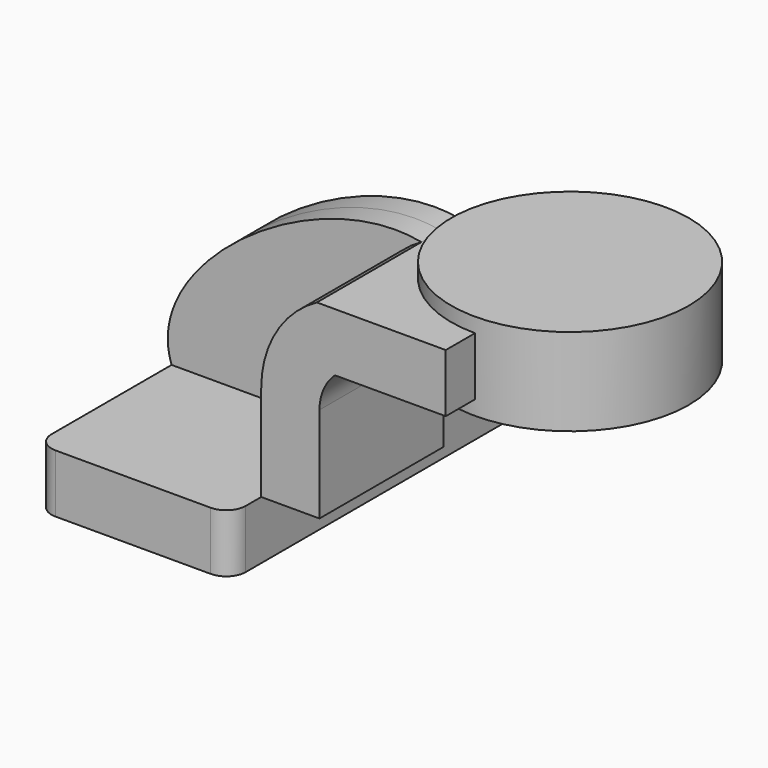
from build123d import *

# Parameters (mm, degrees)
F0_W     = 63.5
F0_H     = 19.05
F1_DEPTH = 63.5
F0_W_2   = 11.946930586
F2_DEPTH = 50.8
F3_DEPTH = 8.0645
F5_R     = 6.35


with BuildPart() as f1:
    # F0 (on Front) → F1 (new body, symmetric)
    with BuildSketch(Plane.XZ):
        with Locations((-9.525, 0)):
            Rectangle(F0_W, F0_H)
    extrude(amount=F1_DEPTH, both=True)

    # F5
    f5_edges = [f1.edges().sort_by_distance(p)[0] for p in [
        (22.225, -63.5, 0),
        (-41.275, -63.5, 0),
        (-41.275, 63.5, 0),
        (22.225, 63.5, 0),
    ]]
    fillet(f5_edges, radius=F5_R)


with BuildPart() as f2:
    # F0 (on Front) → F2 (new body)
    with BuildSketch(Plane.XZ):
        with BuildLine():
            Line((22.225, 40.787809422), (22.225, 9.525))
            Line((22.225, 9.525), (41.275, 9.525))
            Line((41.275, 9.525), (41.275, 40.787809422))
            ThreePointArc((41.275, 40.787809422), (42.5923001513, 47.1193969098), (46.3255826917, 52.4002))
            Line((46.3255826917, 52.4002), (70.6224152459, 52.4002))
            Line((70.6224152459, 52.4002), (70.6224152459, 71.4502))
            Line((70.6224152459, 71.4502), (40.4295505729, 71.4502))
            ThreePointArc((40.4295505729, 71.4502), (27.1190383001, 58.6174747128), (22.225, 40.787809422))
        make_face()
        with Locations((76.5958805389, 61.9252)):
            Rectangle(F0_W_2, F0_H)
    extrude(amount=F2_DEPTH)

    # F0 (on Front) → F4 (revolve)
    with BuildSketch(Plane.XZ):
        Polygon((82.5693458319, 76.2), (82.5693458319, 71.4502), (82.5693458319, 52.4002), (82.5693458319, 47.625), (121.4224152459, 47.625), (121.4224152459, 76.2), align=None)
    revolve(axis=Axis((82.5693458319, 0, 61.9125), (0, 0, 1)))


with BuildPart() as f3:
    # F0 (on Front) → F3 (new body, symmetric)
    with BuildSketch(Plane.XZ):
        with BuildLine():
            add(Edge.make_bspline(
                [(-41.275, 9.525), (-51.6410161004, 38.2644806741), (5.5672849006, 78.4525085923), (40.4295505729, 71.4502)],
                knots=[0, 0, 0, 0, 102.5200662278, 102.5200662278, 102.5200662278, 102.5200662278], degree=3))
            Line((-41.275, 9.525), (22.225, 9.525))
            Line((22.225, 9.525), (22.225, 40.787809422))
            ThreePointArc((22.225, 40.787809422), (27.1190383001, 58.6174747128), (40.4295505729, 71.4502))
        make_face()
    extrude(amount=F3_DEPTH, both=True)


solid = Compound([f1.part, f2.part, f3.part])
